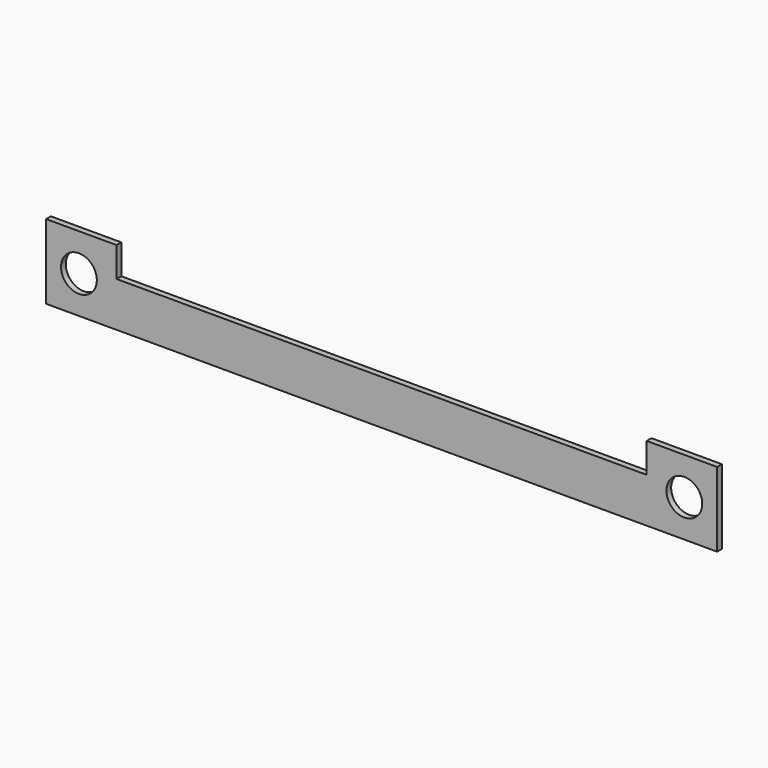
from build123d import *

# Parameters (mm, degrees)
F0_R     = 1.2
F1_DEPTH = 0.4


with BuildPart() as f1:
    # F0 (on Front) → F1 (new body)
    with BuildSketch(Plane.XZ):
        Polygon((-17.76, 2.5), (-22.48, 2.5), (-22.48, -2.5), (22.48, -2.5), (22.48, 2.5), (17.76, 2.5), (17.76, 0.5), (-17.76, 0.5), align=None)
        with Locations((-20.28, 0)):
            Circle(F0_R, mode=Mode.SUBTRACT)
        with Locations((20.28, 0)):
            Circle(F0_R, mode=Mode.SUBTRACT)
    extrude(amount=F1_DEPTH)


solid = f1.part
